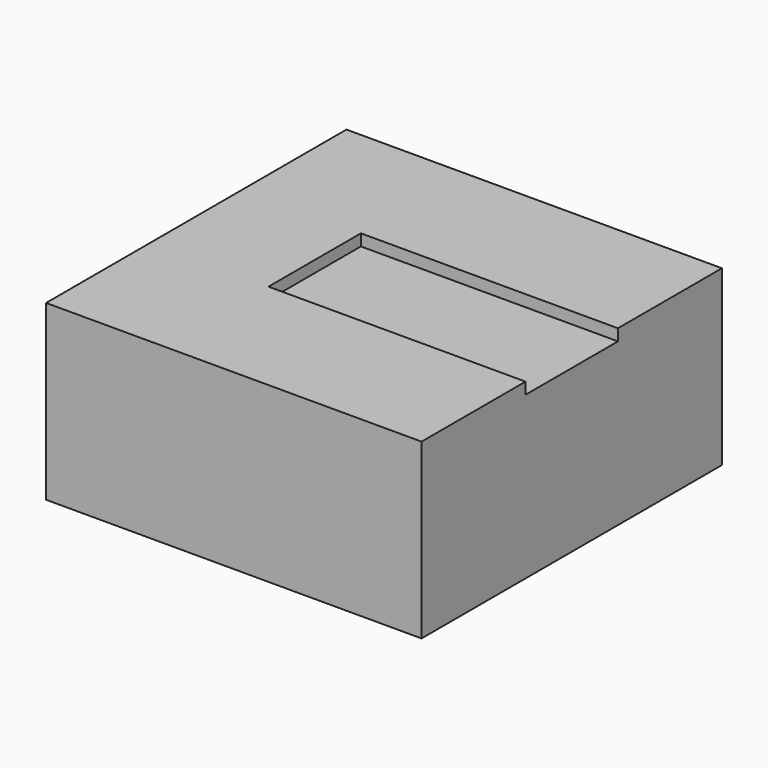
from build123d import *

# Parameters (mm, degrees)
F0_W      = 130
F0_H      = 130
F1_DEPTH  = 60
F2_W      = 110
F2_H      = 110
F3_DEPTH  = 50
F4_W      = 89
F4_H      = 40
F5_DEPTH  = 4
F6_R      = 7
F7_W      = 10
F7_H      = 4
F8_DEPTH  = 4
F9_W      = 10
F9_H      = 4
F10_DEPTH = 4
F11_W     = 10
F11_H     = 10
F12_DEPTH = 4
F15_DEPTH = 5
F17_R     = 3.7840755507
F18_DEPTH = 10


with BuildPart() as f1:
    # F0 (on Top) → F1 (new body)
    with BuildSketch(Plane.XY):
        Rectangle(F0_W, F0_H)
    extrude(amount=F1_DEPTH)

    # F2 (on Top) → F3 (cut)
    with BuildSketch(Plane.XY):
        Rectangle(F2_W, F2_H)
    extrude(amount=F3_DEPTH, mode=Mode.SUBTRACT)

    # F4 (on face) → F5 (cut)
    with BuildSketch(Plane.XY.offset(60)):
        with Locations((20.5, 0)):
            Rectangle(F4_W, F4_H)
    extrude(amount=-F5_DEPTH, mode=Mode.SUBTRACT)

    # F6
    f6_edges = [f1.edges().sort_by_distance(p)[0] for p in [
        (55, -55, 25),
        (55, 55, 25),
        (-55, 55, 25),
        (-55, -55, 25),
    ]]
    fillet(f6_edges, radius=F6_R)

    # F7 (on face) → F8 (cut)
    with BuildSketch(Plane.XY):
        with Locations((-60, -39.7807884514)):
            Rectangle(F7_W, F7_H)
    extrude(amount=F8_DEPTH, mode=Mode.SUBTRACT)

    # F9 (on face) → F10 (cut)
    with BuildSketch(Plane.XY):
        with Locations((-60, -47.1367839277)):
            Rectangle(F9_W, F9_H)
    extrude(amount=F10_DEPTH, mode=Mode.SUBTRACT)

    # F11 (on face) → F12 (cut)
    with BuildSketch(Plane.XY):
        with Locations((-60, 45)):
            Rectangle(F11_W, F11_H)
    extrude(amount=F12_DEPTH, mode=Mode.SUBTRACT)

    # F14 (on offset) → F15 (cut)
    with BuildSketch(Plane(origin=(-55, 0, 0), x_dir=(0, -1, 0), z_dir=(-1, 0, 0))):
        with BuildLine():
            ThreePointArc((-2.8704081755, 30), (-0.3704081755, 25), (2.1295918245, 30))
            Line((2.1295918245, 30), (-2.8704081755, 30))
        make_face()
    extrude(amount=F15_DEPTH, mode=Mode.SUBTRACT)

    # F17 (on offset) → F18 (cut)
    with BuildSketch(Plane(origin=(-60, 0, 0), x_dir=(0, -1, 0), z_dir=(-1, 0, 0))):
        with Locations((-0.3525029916, 28.0889305786)):
            Circle(F17_R)
    extrude(amount=F18_DEPTH, mode=Mode.SUBTRACT)


solid = f1.part
